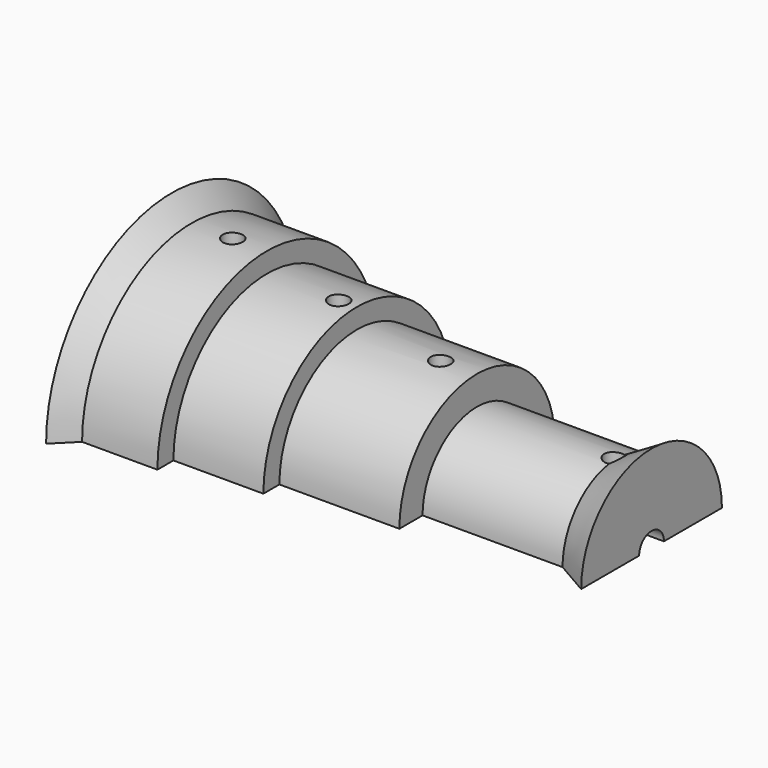
from build123d import *

# Parameters (mm, degrees)
F1_ANGLE_BACK = 90
F1_ANGLE      = 180
F2_R          = 0.5
F3_DEPTH      = 12.5


with BuildPart() as f1:
    # F0 (on Front) → F1 (revolve)
    with BuildSketch(Plane.XZ, mode=Mode.PRIVATE) as f1_sk:
        Polygon((1, 6.85), (0, 7.85), (0, 0.775), (24, 0.775), (24, 4.4), (22.2679491924, 3.4), (15.2679491924, 3.4), (15.2679491924, 4.85), (9.2679491924, 4.85), (9.2679491924, 5.85), (4.7679491924, 5.85), (4.7679491924, 6.85), align=None)
    revolve(f1_sk.sketch.rotate(Axis((6.0447262343, 0, 0), (1, 0, 0)), -F1_ANGLE_BACK), axis=Axis((6.0447262343, 0, 0), (1, 0, 0)), revolution_arc=F1_ANGLE)

    # F2 (on Top) → F3 (cut, symmetric)
    with BuildSketch(Plane.XY):
        with Locations((3.0579494778, 0)):
            Circle(F2_R)
        with Locations((8.3587151021, 0)):
            Circle(F2_R)
        with Locations((13.4568922222, 0)):
            Circle(F2_R)
        with Locations((22.1366547048, 0)):
            Circle(F2_R)
    extrude(amount=F3_DEPTH, both=True, mode=Mode.SUBTRACT)


solid = f1.part
